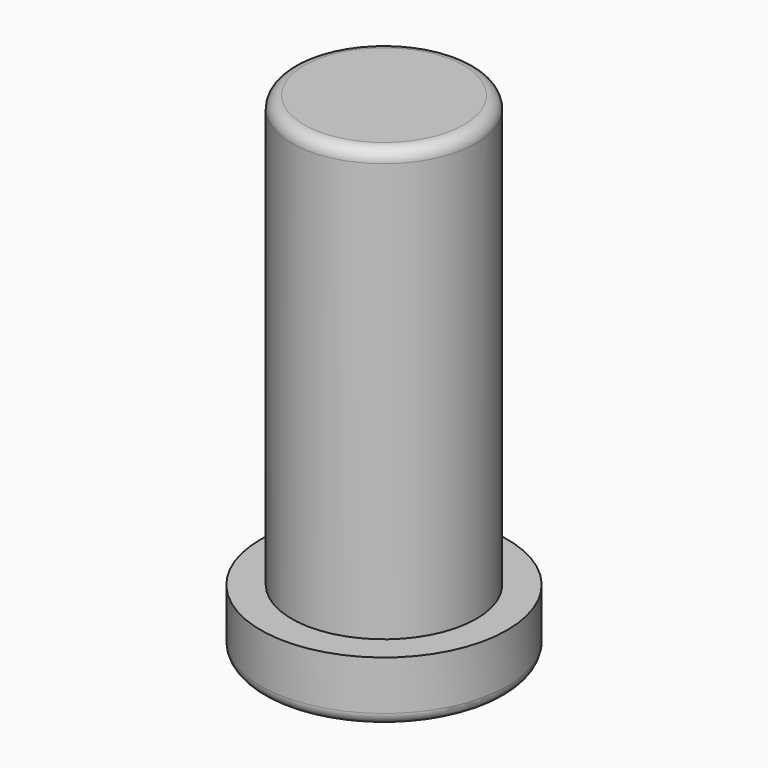
from build123d import *

# Parameters (mm, degrees)
F0_R     = 10
F1_DEPTH = 5
F2_R     = 7.5
F3_DEPTH = 35
F4_R     = 1
F5_R     = 1


with BuildPart() as f1:
    # F0 (on Top) → F1 (new body)
    with BuildSketch(Plane.XY):
        Circle(F0_R)
    extrude(amount=F1_DEPTH)

    # F2 (on face) → F3 (join)
    with BuildSketch(Plane.XY.offset(5)):
        Circle(F2_R)
    extrude(amount=F3_DEPTH)

    # F4
    f4_edges = [f1.edges().sort_by_distance(p)[0] for p in [
        (-7.5, 0, 40),
    ]]
    fillet(f4_edges, radius=F4_R)

    # F5
    f5_edges = [f1.edges().sort_by_distance(p)[0] for p in [
        (-10, 0, 0),
    ]]
    fillet(f5_edges, radius=F5_R)


solid = f1.part
